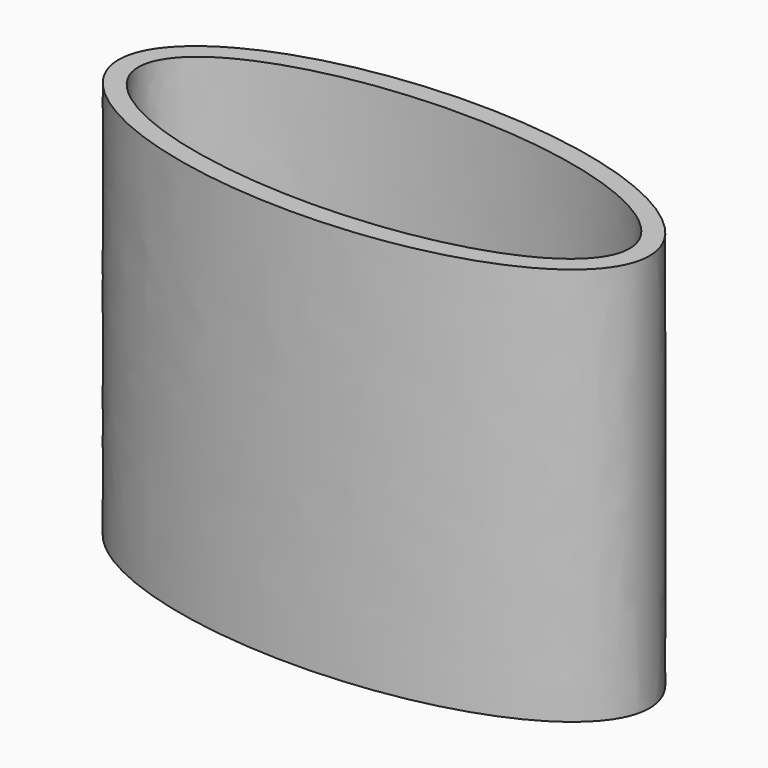
from build123d import *

# Parameters (mm, degrees)
F1_DEPTH = 80
F3_DEPTH = 77
F4_W     = 136.396967
F4_H     = 205.63998
F5_DEPTH = 20


with BuildPart() as f1:
    # F0 (on Top) → F1 (new body)
    with BuildSketch(Plane.XY):
        with BuildLine():
            add(Edge.make_bspline(
                [(40, 0), (40, 30.310889), (-20, 15.155445), (-80, 0), (-20, -15.155445), (40, -30.310889), (40, 0)],
                knots=[0, 0, 0, 2.094395, 2.094395, 4.18879, 4.18879, 6.283185, 6.283185, 6.283185], degree=2, weights=[1, 0.5, 1, 0.5, 1, 0.5, 1]))
        make_face()
    extrude(amount=F1_DEPTH)

    # F2 (on face) → F3 (cut)
    with BuildSketch(Plane.XY.offset(80)):
        with BuildLine():
            add(Edge.make_bspline(
                [(37, 0), (37, 25.114737), (-18.5, 12.557368), (-74, 0), (-18.5, -12.557368), (37, -25.114737), (37, 0)],
                knots=[0, 0, 0, 2.094395, 2.094395, 4.18879, 4.18879, 6.283185, 6.283185, 6.283185], degree=2, weights=[1, 0.5, 1, 0.5, 1, 0.5, 1]))
        make_face()
    extrude(amount=-F3_DEPTH, mode=Mode.SUBTRACT)

    # F4 (on face) → F5 (cut)
    with BuildSketch(Plane.XY.offset(80)):
        with Locations((19.315842, -8.53635)):
            Rectangle(F4_W, F4_H)
    extrude(amount=-F5_DEPTH, mode=Mode.SUBTRACT)


solid = f1.part
